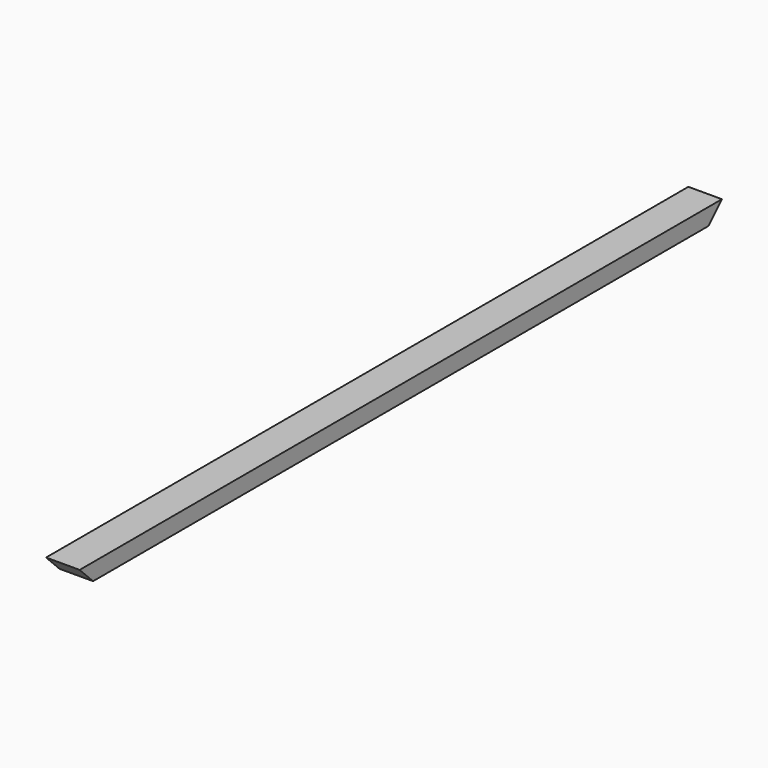
from build123d import *

# Parameters (mm, degrees)
F0_W     = 38.1
F0_H     = 19.05
F1_DEPTH = 911.225
F3_DEPTH = 38.1


with BuildPart() as f1:
    # F0 (on Front) → F1 (new body)
    with BuildSketch(Plane.XZ):
        with Locations((6.227258, -1.307048)):
            Rectangle(F0_W, F0_H)
    extrude(amount=F1_DEPTH)

    # F2 (on face) → F3 (cut)
    with BuildSketch(Plane.YZ.offset(25.277258)):
        Polygon((-892.175, -10.832048), (-911.225, 8.217952), (-911.225, -10.832048), align=None)
        Polygon((0, -10.832048), (0, 8.217952), (-19.05, -10.832048), align=None)
    extrude(amount=-F3_DEPTH, mode=Mode.SUBTRACT)


solid = f1.part
